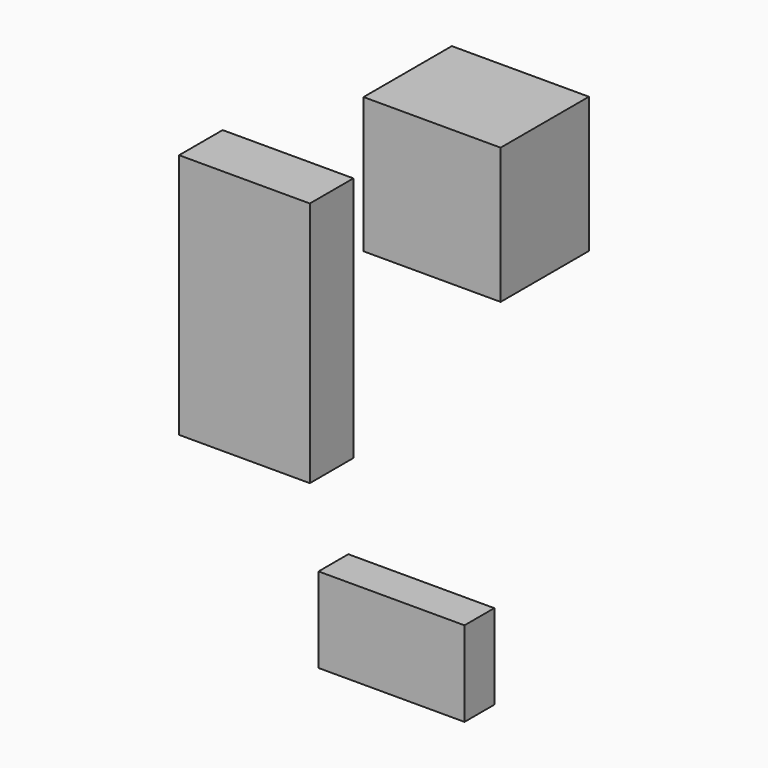
from build123d import *

# Parameters (mm, degrees)
F1_DEPTH = 4.09679
F2_W     = 15.080418
F2_H     = 14.940785
F4_DEPTH = 12.14063
F3_W     = 14.382251
F3_H     = 27.088901
F5_DEPTH = 5.99094
F6_W     = 3.21157
F6_H     = 3.071938
F7_DEPTH = 4.03607


with BuildPart() as f1:
    # F0 (on Front) → F1 (new body)
    with BuildSketch(Plane.XZ):
        Polygon((1.118124, -22.201728), (0, -22.201728), (-13.684084, -22.201728), (-14.940785, -22.201728), (-14.940785, -31.557173), (1.118124, -31.557173), align=None)
    extrude(amount=F1_DEPTH)

    # F6 (on Front) → F7 (join)
    with BuildSketch(Plane.XZ):
        with Locations((-3.141754, -25.692567)):
            Rectangle(F6_W, F6_H)
    extrude(amount=F7_DEPTH)


with BuildPart() as f4:
    # F2 (on Front) → F4 (new body)
    with BuildSketch(Plane.XZ):
        with Locations((-5.724974, 15.150236)):
            Rectangle(F2_W, F2_H)
    extrude(amount=-F4_DEPTH)


with BuildPart() as f5:
    # F3 (on Front) → F5 (new body)
    with BuildSketch(Plane.XZ):
        with Locations((-21.573377, 0.837802)):
            Rectangle(F3_W, F3_H)
    extrude(amount=F5_DEPTH)


solid = Compound([f1.part, f4.part, f5.part])
